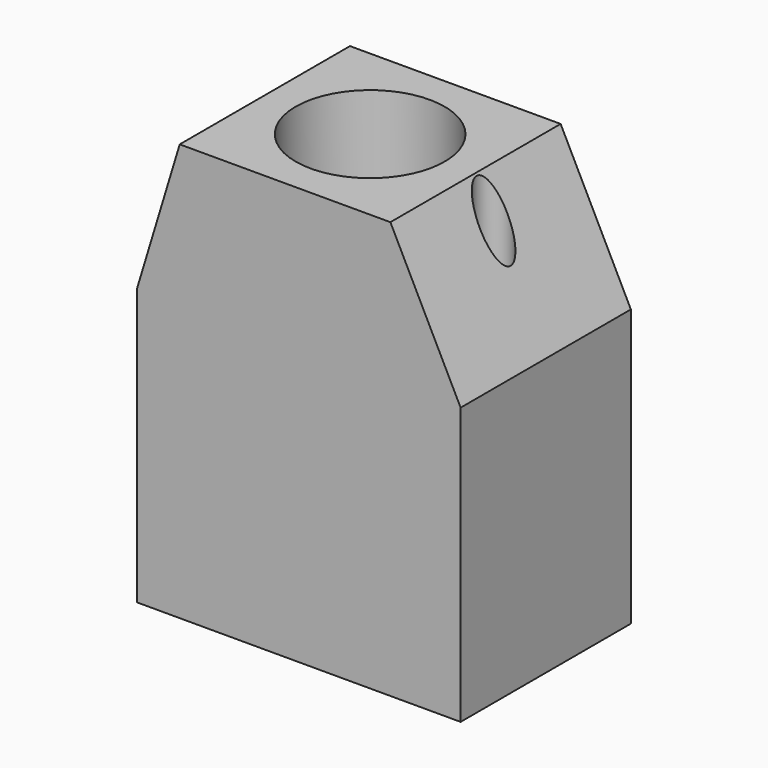
from build123d import *

# Parameters (mm, degrees)
PAD001_DEPTH    = 2.5
SKETCH039_W     = 1
SKETCH039_H     = 1
POCKET015_DEPTH = 3.75
SKETCH040_W     = 4.87
SKETCH040_H     = 4
POCKET001_DEPTH = 6.8
SKETCH005_R     = 1.75
SKETCH005_R_2   = 0.4
POCKET002_DEPTH = 5


with BuildPart() as part:
    # Sketch038 → Pad001 (new body, symmetric)
    with BuildSketch(Plane.XZ):
        Polygon((0, 0), (7.6, 0), (7.6, 6.5), (5.95, 9.8), (1, 9.8), (0, 6.5), align=None)
    extrude(amount=PAD001_DEPTH, both=True)

    # Sketch039 (on Face6 of Pad001) → Pocket015 (cut)
    with BuildSketch(Plane(origin=(0, 0, 0), x_dir=(0, 0, -1), z_dir=(-1, 0, 0))):
        with Locations((-0.5, 0)):
            Rectangle(SKETCH039_W, SKETCH039_H)
    extrude(amount=-POCKET015_DEPTH, mode=Mode.SUBTRACT)

    # Sketch040 (on Face5 of Pocket015) → Pocket001 (cut)
    with BuildSketch(Plane(origin=(0, 0, 0), x_dir=(0, 0, -1), z_dir=(-1, 0, 0))):
        with Locations((-3.435, 0)):
            Rectangle(SKETCH040_W, SKETCH040_H)
    extrude(amount=-POCKET001_DEPTH, mode=Mode.SUBTRACT)

    # Sketch005 (on Face10 of Pocket001) → Pocket002 (cut)
    with BuildSketch(Plane(origin=(0, 0, 9.8), x_dir=(-1, 0, 0), z_dir=(0, 0, 1))):
        with Locations((-3.475, 0)):
            Circle(SKETCH005_R)
        with Locations((-6.375, 0)):
            Circle(SKETCH005_R_2)
    extrude(amount=-POCKET002_DEPTH, mode=Mode.SUBTRACT)


solid = part.part
